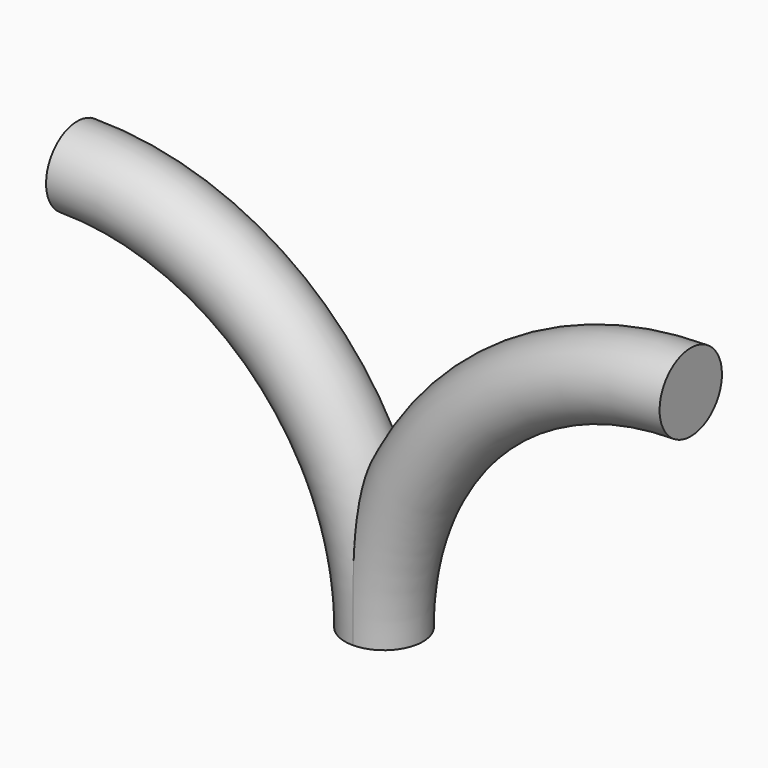
from build123d import *

# Parameters (mm, degrees)
F0_R     = 9.5
F1_ANGLE = 90
F2_W     = 145.696804
F2_H     = 128.937841
F3_DEPTH = 25


with BuildPart() as f1:
    # F0 (on Top) → F1 (revolve)
    with BuildSketch(Plane.XY):
        Circle(F0_R)
    revolve(axis=Axis((74.798293, -7.044435, 0), (0, 1, 0)), revolution_arc=F1_ANGLE)

    # F2 (on Right) → F3 (cut)
    with BuildSketch(Plane.YZ):
        with Locations((-1.890838, 3.012911)):
            Rectangle(F2_W, F2_H)
    extrude(amount=-F3_DEPTH, mode=Mode.SUBTRACT)

    # F4: F1 across plane


with BuildPart() as f1_1:
    add(f1.part)
    add(f1.part.mirror(Plane.YZ))


solid = f1_1.part
